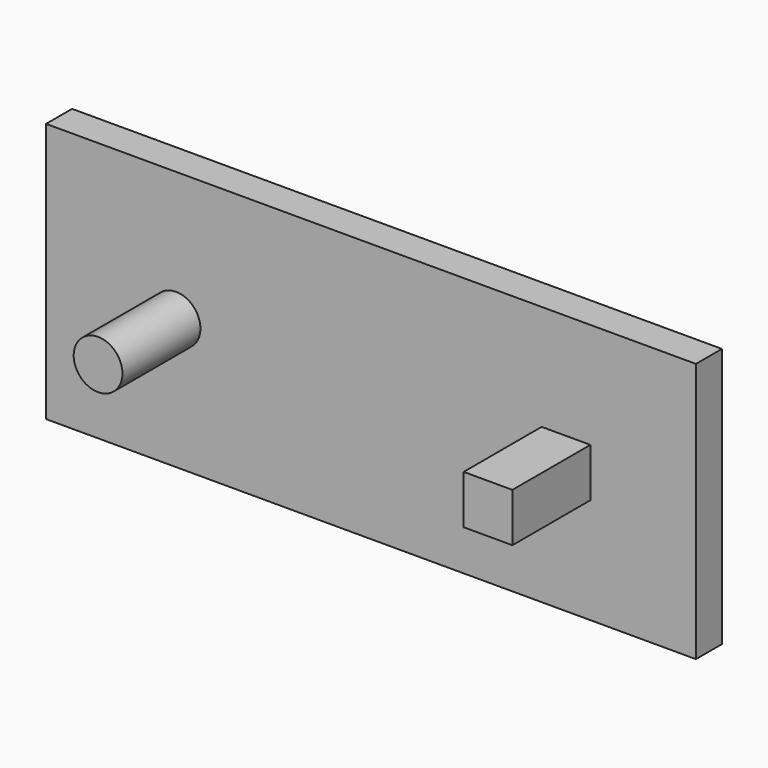
from build123d import *

# Parameters (mm, degrees)
F0_R     = 4.7625
F0_W     = 9.525
F0_H     = 9.525
F1_DEPTH = 25.4
F0_W_2   = 127
F0_H_2   = 50.8
F2_DEPTH = 6.35


with BuildPart() as f1:
    # F0 (on Front) → F1 (new body)
    with BuildSketch(Plane.XZ):
        with Locations((-112.813653, 43.852359)):
            Circle(F0_R)
        with Locations((-36.602988, 43.852359)):
            Rectangle(F0_W, F0_H)
    extrude(amount=F1_DEPTH)


with BuildPart() as f2:
    # F0 (on Front) → F2 (new body)
    with BuildSketch(Plane.XZ):
        with Locations((-74.713653, 43.852359)):
            Rectangle(F0_W_2, F0_H_2)
        with Locations((-112.813653, 43.852359)):
            Circle(F0_R, mode=Mode.SUBTRACT)
        with Locations((-36.602988, 43.852359)):
            Rectangle(F0_W, F0_H, mode=Mode.SUBTRACT)
    extrude(amount=F2_DEPTH)


solid = Compound([f1.part, f2.part])
